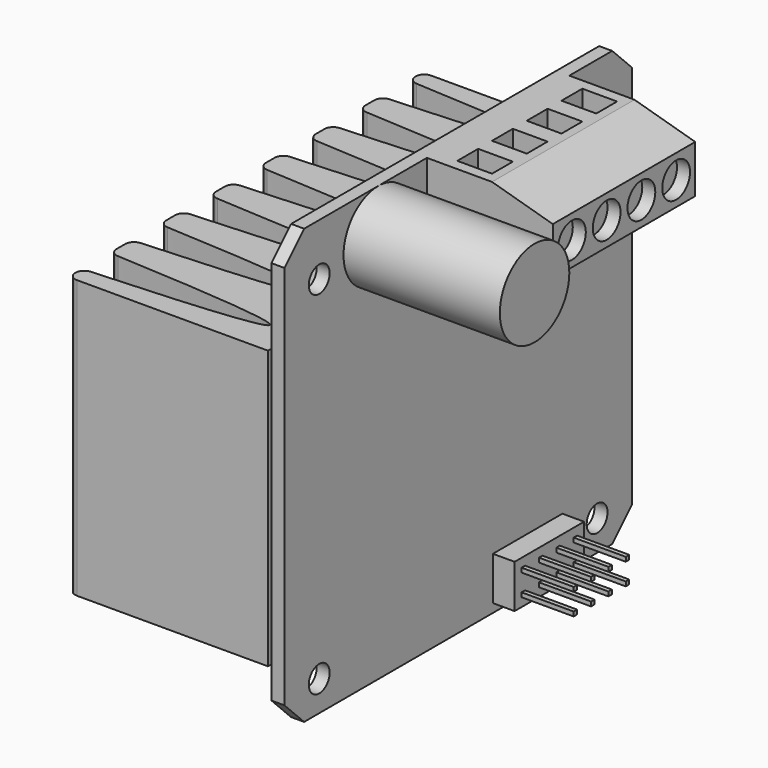
from build123d import *

# Parameters (mm, degrees)
SKETCH076_R                     = 1.5
PAD059_DEPTH                    = 1.5
SKETCH077_R                     = 5
PAD060_DEPTH                    = 18
SKETCH078_W                     = 20.5
SKETCH078_H                     = 10
PAD061_DEPTH                    = 14.5
CHAMFER006_SIZE2                = 2.5
CHAMFER006_SIZE                 = 9
CHAMFER007_SIZE2                = 7
CHAMFER007_SIZE                 = 2
SKETCH079_R                     = 2
POCKET015_DEPTH                 = 1.5
SKETCH080_W                     = 3
SKETCH080_H                     = 3
POCKET016_DEPTH                 = 5
CHAMFER008_SIZE                 = 1
SKETCH081_W                     = 2.5
SKETCH081_H                     = 2.5
PAD062_DEPTH                    = 2.5
SKETCH082_W                     = 0.5
SKETCH082_H                     = 0.5
PAD063_DEPTH                    = 6
SKETCH082_LINEARPATTERN007_2_W  = 0.5
SKETCH082_LINEARPATTERN007_2_H  = 0.5
PAD063_LINEARPATTERN007_2_DEPTH = 6
SKETCH081_LINEARPATTERN007_2_W  = 2.5
SKETCH081_LINEARPATTERN007_2_H  = 2.5
PAD062_LINEARPATTERN007_2_DEPTH = 2.5
SKETCH082_LINEARPATTERN007_3_W  = 0.5
SKETCH082_LINEARPATTERN007_3_H  = 0.5
PAD063_LINEARPATTERN007_3_DEPTH = 6
SKETCH081_LINEARPATTERN007_3_W  = 2.5
SKETCH081_LINEARPATTERN007_3_H  = 2.5
PAD062_LINEARPATTERN007_3_DEPTH = 2.5
SKETCH082_LINEARPATTERN007_4_W  = 0.5
SKETCH082_LINEARPATTERN007_4_H  = 0.5
PAD063_LINEARPATTERN007_4_DEPTH = 6
SKETCH081_LINEARPATTERN007_4_W  = 2.5
SKETCH081_LINEARPATTERN007_4_H  = 2.5
PAD062_LINEARPATTERN007_4_DEPTH = 2.5
LINEARPATTERN008_COUNT          = 2
LINEARPATTERN008_PITCH          = 2.5
SKETCH083_W                     = 51
SKETCH083_H                     = 32
PAD064_DEPTH                    = 23
POCKET017_DEPTH                 = 43.501
LINEARPATTERN009_COUNT          = 7
LINEARPATTERN009_PITCH          = 7.166667
FILLET004_R                     = 1
BODY017_ROLL_ANGLE              = 90
BODY017_PLACEMENT_ANGLE         = 90


with BuildPart() as part:
    # Sketch076 → Pad059 (new body)
    with BuildSketch(Plane.XY):
        Polygon((0, 47.171573), (0, 2.828427), (2.828427, 0), (47.171573, 0), (50, 2.828427), (50, 47.171573), (47.171573, 50), (2.828427, 50), align=None)
        with Locations((5, 3.5)):
            Circle(SKETCH076_R, mode=Mode.SUBTRACT)
        with Locations((5, 44)):
            Circle(SKETCH076_R, mode=Mode.SUBTRACT)
        with Locations((45, 44)):
            Circle(SKETCH076_R, mode=Mode.SUBTRACT)
        with Locations((45, 3.5)):
            Circle(SKETCH076_R, mode=Mode.SUBTRACT)
    extrude(amount=-PAD059_DEPTH)

    # Sketch077 (on Face13 of Pad059) → Pad060 (join)
    with BuildSketch(Plane.XY):
        with Locations((13.5, 45)):
            Circle(SKETCH077_R)
    extrude(amount=PAD060_DEPTH)

    # Sketch078 (on Face4 of Pad060) → Pad061 (join)
    with BuildSketch(Plane.XY):
        with Locations((30.75, 45)):
            Rectangle(SKETCH078_W, SKETCH078_H)
    extrude(amount=PAD061_DEPTH)

    # Chamfer006
    chamfer006_edges = [part.edges().sort_by_distance(p)[0] for p in [
        (30.75, 40, 14.5),
    ]]
    chamfer006_side = part.faces().sort_by_distance((30.75, 40, 7.25))[0]
    chamfer(chamfer006_edges, length=CHAMFER006_SIZE, length2=CHAMFER006_SIZE2, reference=chamfer006_side)

    # Chamfer007
    chamfer007_edges = [part.edges().sort_by_distance(p)[0] for p in [
        (30.75, 50, 14.5),
    ]]
    chamfer007_side = part.faces().sort_by_distance((30.75, 46.25, 14.5))[0]
    chamfer(chamfer007_edges, length=CHAMFER007_SIZE, length2=CHAMFER007_SIZE2, reference=chamfer007_side)

    # Sketch079 (on Face2 of Chamfer007) → Pocket015 (cut)
    with BuildSketch(Plane.XY.offset(14.5)):
        with Locations((23.25, 45.25)):
            Circle(SKETCH079_R)
        with Locations((28.25, 45.25)):
            Circle(SKETCH079_R)
        with Locations((33.25, 45.25)):
            Circle(SKETCH079_R)
        with Locations((38.25, 45.25)):
            Circle(SKETCH079_R)
    extrude(amount=-POCKET015_DEPTH, mode=Mode.SUBTRACT)

    # Sketch080 (on Face5 of Pocket015) → Pocket016 (cut)
    with BuildSketch(Plane(origin=(0, 50, 0), x_dir=(-1, 0, 0), z_dir=(0, 1, 0))):
        with Locations((-38.25, 4)):
            Rectangle(SKETCH080_W, SKETCH080_H)
        with Locations((-33.25, 4)):
            Rectangle(SKETCH080_W, SKETCH080_H)
        with Locations((-28.25, 4)):
            Rectangle(SKETCH080_W, SKETCH080_H)
        with Locations((-23.25, 4)):
            Rectangle(SKETCH080_W, SKETCH080_H)
    extrude(amount=-POCKET016_DEPTH, mode=Mode.SUBTRACT)

    # Chamfer008
    chamfer008_edges = [part.edges().sort_by_distance(p)[0] for p in [
        (38.25, 50, 5.5),
        (33.25, 50, 5.5),
        (28.25, 50, 5.5),
        (23.25, 50, 5.5),
    ]]
    chamfer(chamfer008_edges, length=CHAMFER008_SIZE)

    # Sketch081 (on Face8 of Chamfer008) → Pad062 (join)
    with BuildSketch(Plane.XY):
        with Locations((38.75, 2.25)):
            Rectangle(SKETCH081_W, SKETCH081_H)
    pad062 = extrude(amount=PAD062_DEPTH)

    # Sketch082 (on Face54 of Pad062) → Pad063 (join)
    with BuildSketch(Plane.XY.offset(2.5)):
        with Locations((38.75, 2.25)):
            Rectangle(SKETCH082_W, SKETCH082_H)
    pad063 = extrude(amount=PAD063_DEPTH)

    # Sketch082 LinearPattern007 2 → Pad063 LinearPattern007 2 (add)
    with BuildSketch(Plane(origin=(-2.5, 0, 2.5), x_dir=(1, 0, 0), z_dir=(0, 0, 1))):
        with Locations((38.75, 2.25)):
            Rectangle(SKETCH082_LINEARPATTERN007_2_W, SKETCH082_LINEARPATTERN007_2_H)
    pad063_linearpattern007_2 = extrude(amount=PAD063_LINEARPATTERN007_2_DEPTH)

    # Sketch081 LinearPattern007 2 → Pad062 LinearPattern007 2 (add)
    with BuildSketch(Plane(origin=(-2.5, 0, 0), x_dir=(1, 0, 0), z_dir=(0, 0, 1))):
        with Locations((38.75, 2.25)):
            Rectangle(SKETCH081_LINEARPATTERN007_2_W, SKETCH081_LINEARPATTERN007_2_H)
    pad062_linearpattern007_2 = extrude(amount=PAD062_LINEARPATTERN007_2_DEPTH)

    # Sketch082 LinearPattern007 3 → Pad063 LinearPattern007 3 (add)
    with BuildSketch(Plane(origin=(-5, 0, 2.5), x_dir=(1, 0, 0), z_dir=(0, 0, 1))):
        with Locations((38.75, 2.25)):
            Rectangle(SKETCH082_LINEARPATTERN007_3_W, SKETCH082_LINEARPATTERN007_3_H)
    pad063_linearpattern007_3 = extrude(amount=PAD063_LINEARPATTERN007_3_DEPTH)

    # Sketch081 LinearPattern007 3 → Pad062 LinearPattern007 3 (add)
    with BuildSketch(Plane(origin=(-5, 0, 0), x_dir=(1, 0, 0), z_dir=(0, 0, 1))):
        with Locations((38.75, 2.25)):
            Rectangle(SKETCH081_LINEARPATTERN007_3_W, SKETCH081_LINEARPATTERN007_3_H)
    pad062_linearpattern007_3 = extrude(amount=PAD062_LINEARPATTERN007_3_DEPTH)

    # Sketch082 LinearPattern007 4 → Pad063 LinearPattern007 4 (add)
    with BuildSketch(Plane(origin=(-7.5, 0, 2.5), x_dir=(1, 0, 0), z_dir=(0, 0, 1))):
        with Locations((38.75, 2.25)):
            Rectangle(SKETCH082_LINEARPATTERN007_4_W, SKETCH082_LINEARPATTERN007_4_H)
    pad063_linearpattern007_4 = extrude(amount=PAD063_LINEARPATTERN007_4_DEPTH)

    # Sketch081 LinearPattern007 4 → Pad062 LinearPattern007 4 (add)
    with BuildSketch(Plane(origin=(-7.5, 0, 0), x_dir=(1, 0, 0), z_dir=(0, 0, 1))):
        with Locations((38.75, 2.25)):
            Rectangle(SKETCH081_LINEARPATTERN007_4_W, SKETCH081_LINEARPATTERN007_4_H)
    pad062_linearpattern007_4 = extrude(amount=PAD062_LINEARPATTERN007_4_DEPTH)

    # LinearPattern008: Pad063, Pad062, Pad063 LinearPattern007 2, Pad062 LinearPattern007 2, Pad063 LinearPattern007 3, Pad062 LinearPattern007 3, Pad063 LinearPattern007 4, Pad062 LinearPattern007 4 ×2
    with Locations(*[(0, i * LINEARPATTERN008_PITCH, 0) for i in range(1, LINEARPATTERN008_COUNT)]):
        add(pad063)
        add(pad062)
        add(pad063_linearpattern007_2)
        add(pad062_linearpattern007_2)
        add(pad063_linearpattern007_3)
        add(pad062_linearpattern007_3)
        add(pad063_linearpattern007_4)
        add(pad062_linearpattern007_4)

    # Sketch083 (on Face54 of MultiTransform002) → Pad064 (join)
    with BuildSketch(Plane(origin=(0, 0, -1.5), x_dir=(1, 0, 0), z_dir=(0, 0, -1))):
        with Locations((25, -22.5)):
            Rectangle(SKETCH083_W, SKETCH083_H)
    extrude(amount=PAD064_DEPTH)

    # Sketch084 (on Face88 of Pad064) → Pocket017 (cut, through all)
    with BuildSketch(Plane.XZ.offset(-6.5)):
        with BuildLine():
            add(Edge.make_bspline(
                [(1.5, -24.5), (3.5, 15.5), (5.5, -24.5)],
                knots=[0, 0, 0, 1, 1, 1], degree=2))
            Line((5.5, -24.5), (1.5, -24.5))
        make_face()
    pocket017 = extrude(amount=-POCKET017_DEPTH, mode=Mode.SUBTRACT)

    # LinearPattern009: Pocket017 ×7
    with Locations(*[(i * LINEARPATTERN009_PITCH, 0, 0) for i in range(1, LINEARPATTERN009_COUNT)]):
        add(pocket017, mode=Mode.SUBTRACT)

    # Fillet004
    fillet004_edges = [part.edges().sort_by_distance(p)[0] for p in [
        (-0.5, 22.5, -24.5),
        (1.5, 22.5, -24.5),
        (5.5, 22.5, -24.5),
        (8.666667, 22.5, -24.5),
        (12.666667, 22.5, -24.5),
        (15.833333, 22.5, -24.5),
        (19.833333, 22.5, -24.5),
        (23, 22.5, -24.5),
        (27, 22.5, -24.5),
        (30.166667, 22.5, -24.5),
        (34.166667, 22.5, -24.5),
        (37.333333, 22.5, -24.5),
        (41.333333, 22.5, -24.5),
        (44.5, 22.5, -24.5),
        (48.5, 22.5, -24.5),
        (50.5, 22.5, -24.5),
    ]]
    fillet(fillet004_edges, radius=FILLET004_R)


with BuildPart() as part_1:
    # Body017 roll: moved
    add(part.part.rotate(Axis((0, 0, 0), (1, 0, 0)), BODY017_ROLL_ANGLE))


with BuildPart() as part_2:
    # Body017 placement: moved
    add(part_1.part.moved(Location((-167, 210, 196))).rotate(Axis((-167, 210, 196), (0, 0, 1)), BODY017_PLACEMENT_ANGLE))


solid = part_2.part
